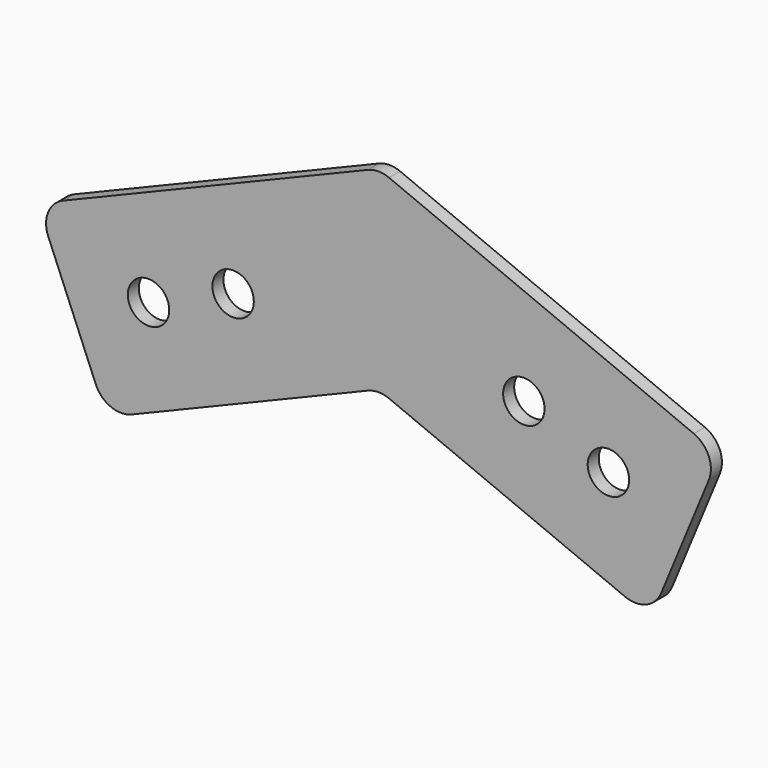
from build123d import *

# Parameters (mm, degrees)
F0_R     = 9.525
F1_DEPTH = 3.175
F2_R     = 12.7


with BuildPart() as f1:
    # F0 (on Front) → F1 (new body, symmetric)
    with BuildSketch(Plane.XZ):
        with BuildLine():
            ThreePointArc((-57.309302, 16.992064), (-74.75405, 22.28387), (-63.189242, 8.192111))
            ThreePointArc((-63.189242, 8.192111), (-58.914554, 11.700257), (-57.309302, 16.992064))
        make_face()
        Polygon((-51.039043, -21.141064), (0, 0), (0, 89.351476), (-156.710008, 24.440066), (-125.11949, -51.82619), align=None)
        with Locations((-105.714939, 0.887177)):
            Circle(F0_R, mode=Mode.SUBTRACT)
        with BuildLine():
            ThreePointArc((-57.309302, 16.992064), (-58.914554, 11.700257), (-63.189242, 8.192111))
            ThreePointArc((-63.189242, 8.192111), (-74.75405, 22.28387), (-57.309302, 16.992064))
        make_face(mode=Mode.SUBTRACT)
        Polygon((0, 89.351476), (0, 0), (125.11949, -51.82619), (156.710008, 24.440066), align=None)
        with Locations((66.834302, 16.992064)):
            Circle(F0_R, mode=Mode.SUBTRACT)
        with Locations((105.714939, 0.887177)):
            Circle(F0_R, mode=Mode.SUBTRACT)
    extrude(amount=F1_DEPTH, both=True)

    # F2
    f2_edges = [f1.edges().sort_by_distance(p)[0] for p in [
        (-156.710008, 0, 24.440066),
        (0, 0, 89.351476),
        (0, 0, 0),
        (125.11949, 0, -51.82619),
        (156.710008, 0, 24.440066),
        (-125.11949, 0, -51.82619),
    ]]
    fillet(f2_edges, radius=F2_R)


solid = f1.part
